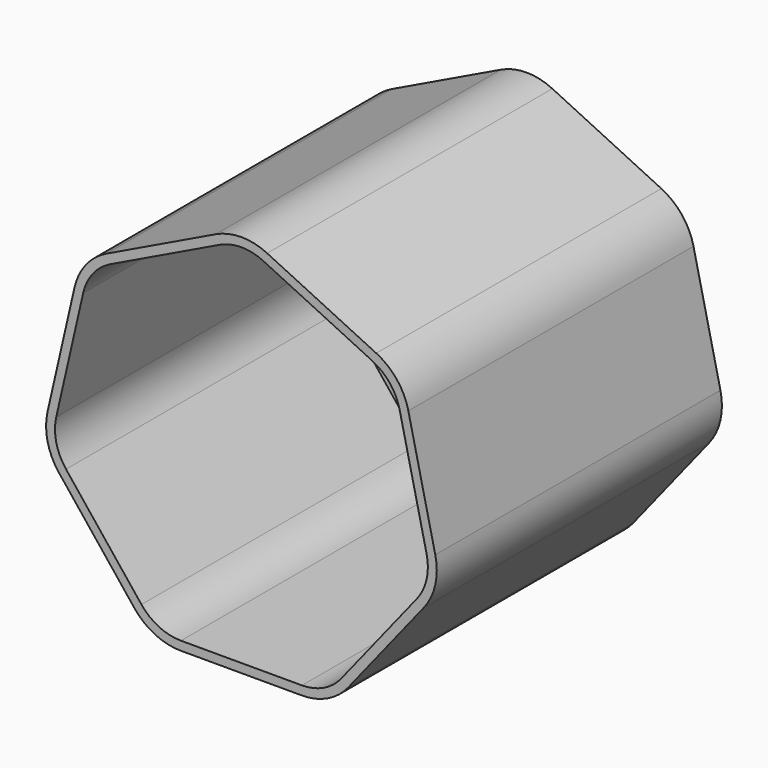
from build123d import *

# Parameters (mm, degrees)
F1_DEPTH = 60
F2_T     = -1.5


with BuildPart() as f1:
    # F0 (on Front) → F1 (new body)
    with BuildSketch(Plane.XZ):
        with BuildLine():
            Line((22.690229, 23.644435), (4.338837, 32.481999))
            ThreePointArc((4.338837, 32.481999), (0, 33.47231), (-4.338837, 32.481999))
            Line((-4.338837, 32.481999), (-22.690229, 23.644435))
            ThreePointArc((-22.690229, 23.644435), (-26.169706, 20.869644), (-28.10067, 16.859956))
            Line((-28.10067, 16.859956), (-32.63309, -2.997871))
            ThreePointArc((-32.63309, -2.997871), (-32.63309, -7.44829), (-30.702125, -11.457978))
            Line((-30.702125, -11.457978), (-18.002569, -27.382719))
            ThreePointArc((-18.002569, -27.382719), (-14.523091, -30.15751), (-10.184254, -31.147821))
            Line((-10.184254, -31.147821), (10.184254, -31.147821))
            ThreePointArc((10.184254, -31.147821), (14.523091, -30.15751), (18.002569, -27.382719))
            Line((18.002569, -27.382719), (30.702125, -11.457978))
            ThreePointArc((30.702125, -11.457978), (32.63309, -7.44829), (32.63309, -2.997871))
            Line((32.63309, -2.997871), (28.10067, 16.859956))
            ThreePointArc((28.10067, 16.859956), (26.169706, 20.869644), (22.690229, 23.644435))
        make_face()
    extrude(amount=F1_DEPTH)

    # F2
    f2_openings = [f1.faces().sort_by_distance(p)[0] for p in [
        (0, -60, 0),
    ]]
    offset(amount=F2_T, openings=f2_openings)


solid = f1.part
